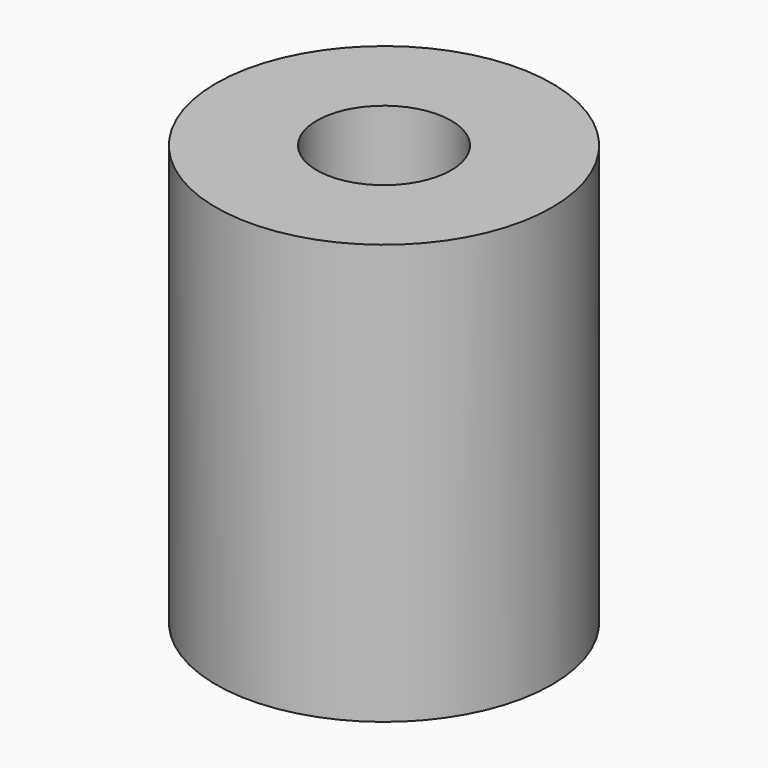
from build123d import *

# Parameters (mm, degrees)
SKETCH_R        = 10
PAD_DEPTH       = 25
SKETCH001_R     = 4
POCKET_DEPTH    = 12.5
SKETCH002_R     = 2.5
POCKET001_DEPTH = 12.5


with BuildPart() as part:
    # Sketch → Pad (new body)
    with BuildSketch(Plane.XY):
        Circle(SKETCH_R)
    extrude(amount=PAD_DEPTH)

    # Sketch001 (on Face3 of Pad) → Pocket (cut)
    with BuildSketch(Plane.XY.offset(25)):
        Circle(SKETCH001_R)
    extrude(amount=-POCKET_DEPTH, mode=Mode.SUBTRACT)

    # Sketch002 (on Face2 of Pocket) → Pocket001 (cut)
    with BuildSketch(Plane(origin=(0, 0, 0), x_dir=(1, 0, 0), z_dir=(0, 0, -1))):
        Circle(SKETCH002_R)
    extrude(amount=-POCKET001_DEPTH, mode=Mode.SUBTRACT)


solid = part.part
